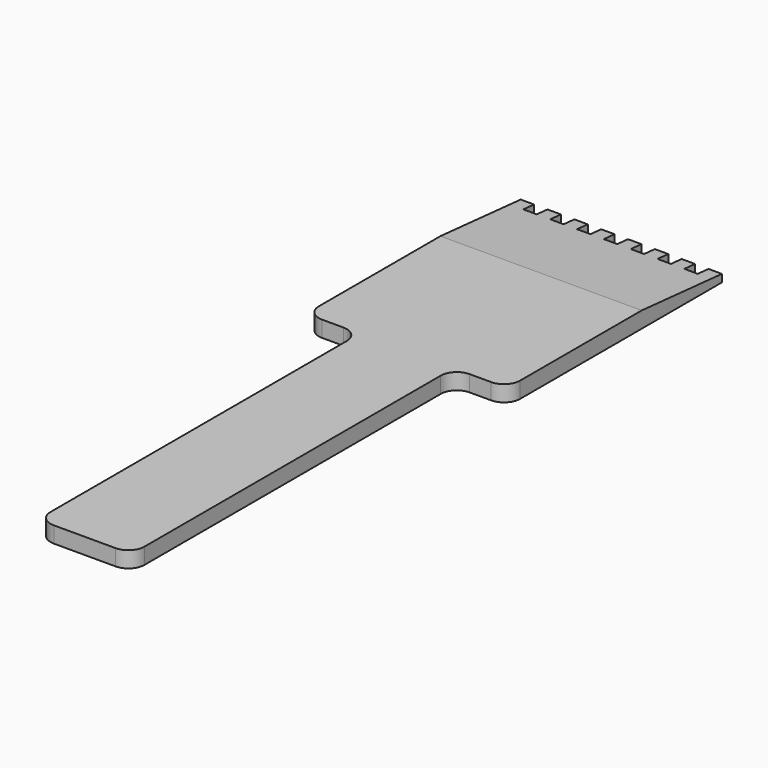
from build123d import *

# Parameters (mm, degrees)
F1_DEPTH = 3
F3_DEPTH = 65


with BuildPart() as f1:
    # F0 (on Top) → F1 (new body)
    with BuildSketch(Plane.XY):
        with BuildLine():
            Line((-17.5, 75), (-20, 75))
            Line((-20, 75), (-20, 72.5))
            Line((-20, 72.5), (-20, 28))
            ThreePointArc((-20, 28), (-19.1213203436, 25.8786796564), (-17, 25))
            Line((-17, 25), (-13, 25))
            ThreePointArc((-13, 25), (-10.8786796564, 24.1213203436), (-10, 22))
            Line((-10, 22), (-10, -47))
            ThreePointArc((-10, -47), (-9.1213203436, -49.1213203436), (-7, -50))
            Line((-7, -50), (-1.25, -50))
            Line((-1.25, -50), (4.5, -50))
            ThreePointArc((4.5, -50), (6.6213203436, -49.1213203436), (7.5, -47))
            Line((7.5, -47), (7.5, 22))
            ThreePointArc((7.5, 22), (8.3786796564, 24.1213203436), (10.5, 25))
            Line((10.5, 25), (14.5, 25))
            ThreePointArc((14.5, 25), (16.6213203436, 25.8786796564), (17.5, 28))
            Line((17.5, 28), (17.5, 75))
            Line((17.5, 75), (15, 75))
            Line((15, 75), (15, 72.4972039461))
            Line((15, 72.4972039461), (12.5, 72.4972039461))
            Line((12.5, 72.4972039461), (12.5, 75))
            Line((12.5, 75), (10, 75))
            Line((10, 75), (10, 72.4972039461))
            Line((10, 72.4972039461), (7.5, 72.4972039461))
            Line((7.5, 72.4972039461), (7.5, 75))
            Line((7.5, 75), (5, 75))
            Line((5, 75), (5, 72.4972039461))
            Line((5, 72.4972039461), (2.5, 72.4972039461))
            Line((2.5, 72.4972039461), (2.5, 75))
            Line((2.5, 75), (0, 75))
            Line((0, 75), (0, 72.4972039461))
            Line((0, 72.4972039461), (-1.25, 72.4972039461))
            Line((-1.25, 72.4972039461), (-2.5, 72.4972039461))
            Line((-2.5, 72.4972039461), (-2.5, 75))
            Line((-2.5, 75), (-5, 75))
            Line((-5, 75), (-5, 72.4972039461))
            Line((-5, 72.4972039461), (-7.5, 72.4972039461))
            Line((-7.5, 72.4972039461), (-7.5, 75))
            Line((-7.5, 75), (-10, 75))
            Line((-10, 75), (-10, 72.4972039461))
            Line((-10, 72.4972039461), (-12.5, 72.4972039461))
            Line((-12.5, 72.4972039461), (-12.5, 75))
            Line((-12.5, 75), (-15, 75))
            Line((-15, 75), (-15, 72.4972039461))
            Line((-15, 72.4972039461), (-17.5, 72.4972039461))
            Line((-17.5, 72.4972039461), (-17.5, 72.5))
            Line((-17.5, 72.5), (-17.5, 75))
        make_face()
    extrude(amount=F1_DEPTH)

    # F2 (on face) → F3 (cut)
    with BuildSketch(Plane.YZ.offset(17.5)):
        Polygon((75, 1.402389338), (78.919917345, 1.0673716897), (79.0749490261, 6.6061792895), (41.3183644414, 4.2810067534), (56.3069497208, 3), (75, 3), align=None)
        Polygon((56.3069497208, 3), (75, 1.402389338), (75, 3), align=None)
    extrude(amount=-F3_DEPTH, mode=Mode.SUBTRACT)


solid = f1.part
